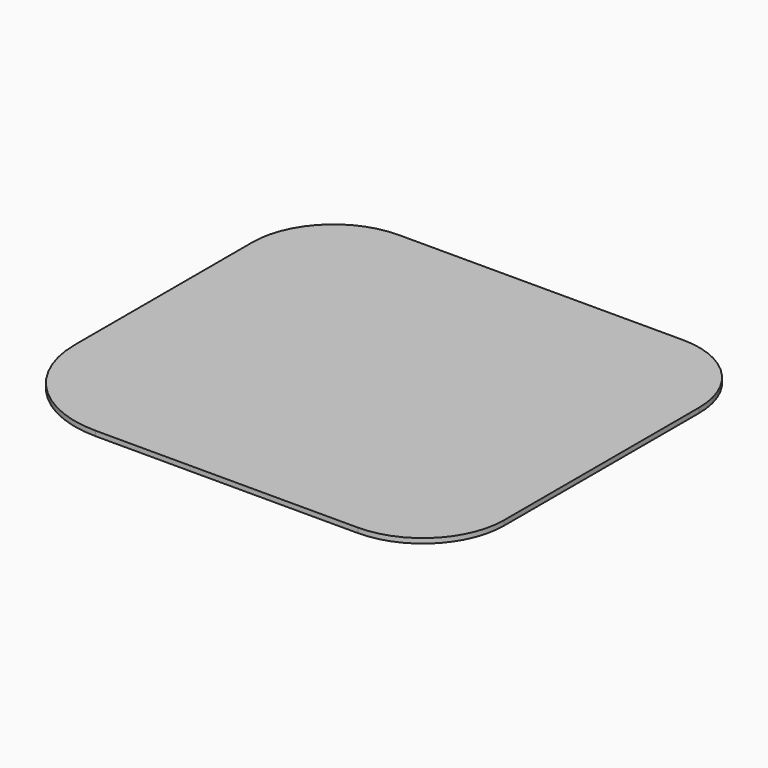
from build123d import *

# Parameters (mm, degrees)
PAD_DEPTH = 0.6


with BuildPart() as part:
    # Sketch → Pad (new body)
    with BuildSketch(Plane.XY):
        with BuildLine():
            Line((-18.865, 25), (16.135, 25))
            ThreePointArc((26.135, 15), (23.206068, 22.071068), (16.135, 25))
            Line((26.135, 15), (26.135, -15))
            ThreePointArc((16.135, -25), (23.206068, -22.071068), (26.135, -15))
            Line((16.135, -25), (-16.135, -25))
            ThreePointArc((-28.865, -12.27), (-25.136469, -21.271469), (-16.135, -25))
            Line((-28.865, -12.27), (-28.865, 15))
            ThreePointArc((-18.865, 25), (-25.936068, 22.071068), (-28.865, 15))
        make_face()
    extrude(amount=PAD_DEPTH)


solid = part.part
